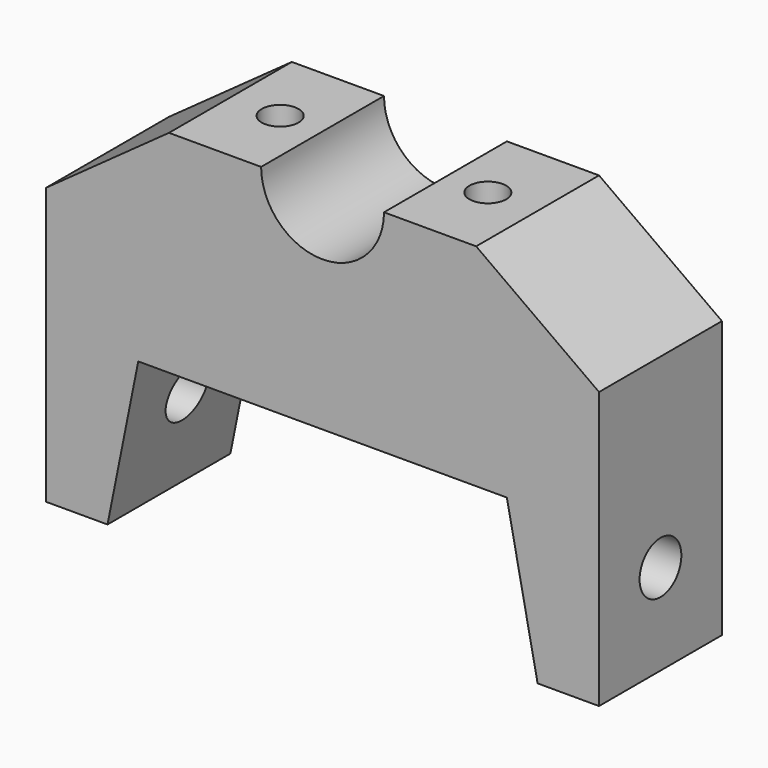
from build123d import *

# Parameters (mm, degrees)
F1_DEPTH = 25
F2_R     = 3
F3_DEPTH = 34.37407
F4_R     = 4.25
F5_DEPTH = 90.001


with BuildPart() as f1:
    # F0 (on Front) → F1 (new body)
    with BuildSketch(Plane.XZ):
        with BuildLine():
            Line((-25, 19.37307), (-45, 5))
            Line((-45, 5), (-45, 0))
            Line((-45, 0), (-45, -40))
            Line((-45, -40), (-35, -40))
            Line((-35, -40), (-30, -15))
            Line((-30, -15), (0, -15))
            Line((0, -15), (30, -15))
            Line((30, -15), (35, -40))
            Line((35, -40), (45, -40))
            Line((45, -40), (45, 0))
            Line((45, 0), (45, 5))
            Line((45, 5), (25, 19.37307))
            Line((25, 19.37307), (10, 19.37307))
            ThreePointArc((10, 19.37307), (0, 9.37307), (-10, 19.37307))
            Line((-10, 19.37307), (-25, 19.37307))
        make_face()
    extrude(amount=F1_DEPTH)

    # F2 (on face) → F3 (cut, through all)
    with BuildSketch(Plane(origin=(0, 0, -15), x_dir=(1, 0, 0), z_dir=(0, 0, -1))):
        with Locations((-16.9, 12.5)):
            Circle(F2_R)
        with Locations((16.9, 12.5)):
            Circle(F2_R)
    extrude(amount=-F3_DEPTH, mode=Mode.SUBTRACT)

    # F4 (on face) → F5 (cut, through all)
    with BuildSketch(Plane(origin=(-45, 0, 0), x_dir=(0, -1, 0), z_dir=(-1, 0, 0))):
        with Locations((12.5, -25.221726)):
            Circle(F4_R)
    extrude(amount=-F5_DEPTH, mode=Mode.SUBTRACT)


solid = f1.part
